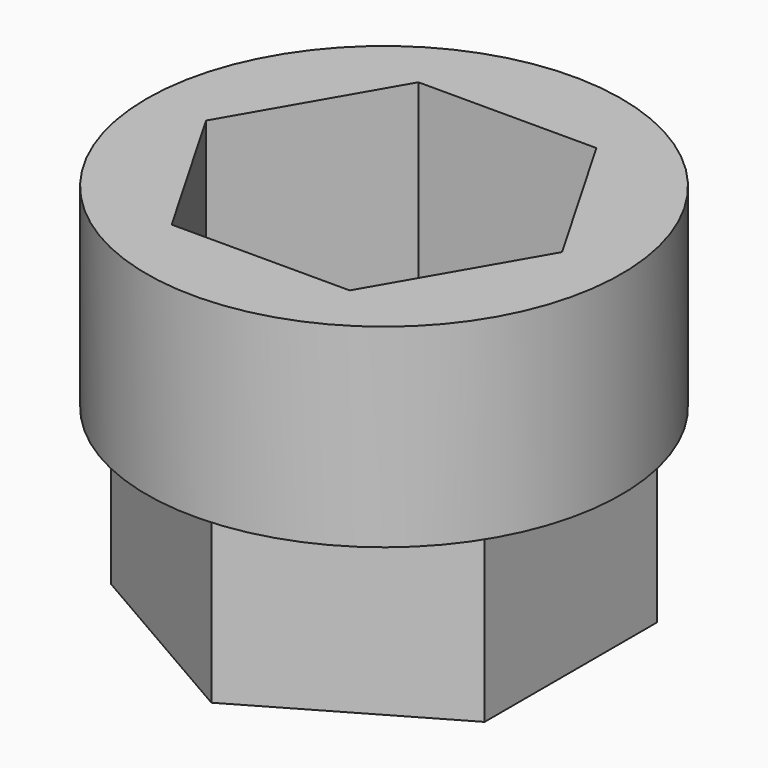
from build123d import *

# Parameters (mm, degrees)
SKETCH165_R             = 5.5
SKETCH165_R_2           = 2.25
PAD071_DEPTH            = 0.5
SKETCH166_R             = 5.5
PAD072_DEPTH            = 4
PAD073_DEPTH            = 4
BODY021_ROLL_ANGLE      = -90
BODY021_PLACEMENT_ANGLE = -180


with BuildPart() as part:
    # Sketch165 → Pad071 (new body)
    with BuildSketch(Plane.XZ):
        Circle(SKETCH165_R)
        Circle(SKETCH165_R_2, mode=Mode.SUBTRACT)
    extrude(amount=PAD071_DEPTH)

    # Sketch166 (on Face4 of Pad071) → Pad072 (join)
    with BuildSketch(Plane.XZ.offset(0.5)):
        Circle(SKETCH166_R)
        Polygon((-2.0625, -3.572355), (2.0625, -3.572355), (4.125, 0), (2.0625, 3.572355), (-2.0625, 3.572355), (-4.125, 0), align=None, mode=Mode.SUBTRACT)
    extrude(amount=PAD072_DEPTH)

    # Sketch167 (on Face2 of Pad072) → Pad073 (join)
    with BuildSketch(Plane(origin=(0, 0, 0), x_dir=(1, 0, 0), z_dir=(0, 1, 0))):
        Polygon((0, 5), (-4.330127, 2.5), (-4.330127, -2.5), (0, -5), (4.330127, -2.5), (4.330127, 2.5), align=None)
        Polygon((0, 4), (-3.464102, 2), (-3.464102, -2), (0, -4), (3.464102, -2), (3.464102, 2), align=None, mode=Mode.SUBTRACT)
    extrude(amount=PAD073_DEPTH)


with BuildPart() as part_1:
    # Body021 roll: moved
    add(part.part.rotate(Axis((0, 0, 0), (1, 0, 0)), BODY021_ROLL_ANGLE))


with BuildPart() as part_2:
    # Body021 placement: moved
    add(part_1.part.moved(Location((0, -103, 24))).rotate(Axis((0, -103, 24), (0, 0, 1)), BODY021_PLACEMENT_ANGLE))


solid = part_2.part
